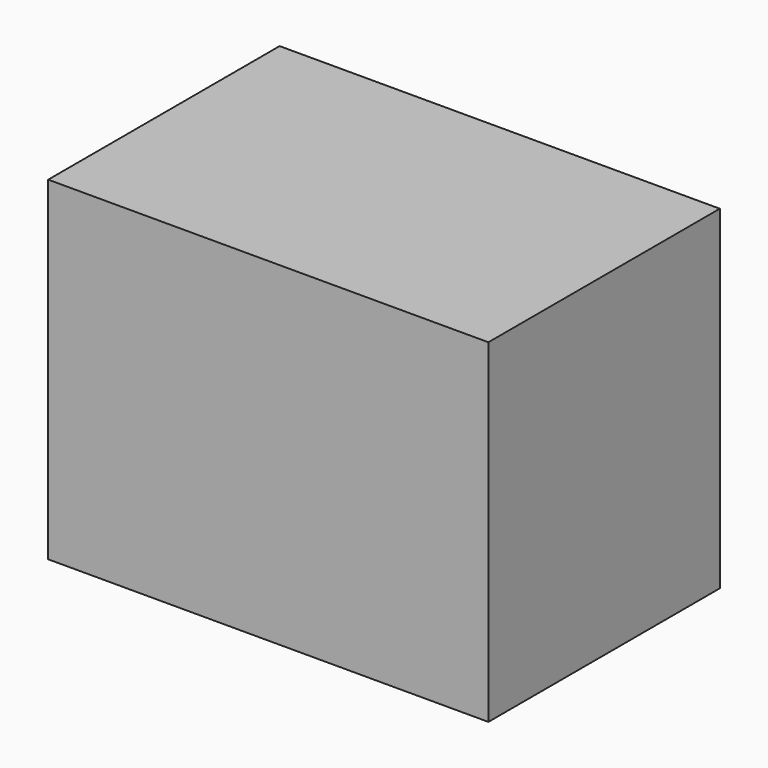
from build123d import *

# Parameters (mm, degrees)
F0_W     = 231.922493
F0_H     = 176.097959
F1_DEPTH = 152.4
F2_W     = 140.724987
F2_H     = 8.766732
F3_DEPTH = 12.7


with BuildPart() as f1:
    # F0 (on Front) → F1 (new body)
    with BuildSketch(Plane.XZ):
        with Locations((56.331284, -38.527861)):
            Rectangle(F0_W, F0_H)
    extrude(amount=F1_DEPTH)

    # F2 (on face) → F3 (join)
    with BuildSketch(Plane.XZ.offset(152.4)):
        with Locations((70.362493, -4.383366)):
            Rectangle(F2_W, F2_H)
    extrude(amount=-F3_DEPTH)


solid = f1.part
